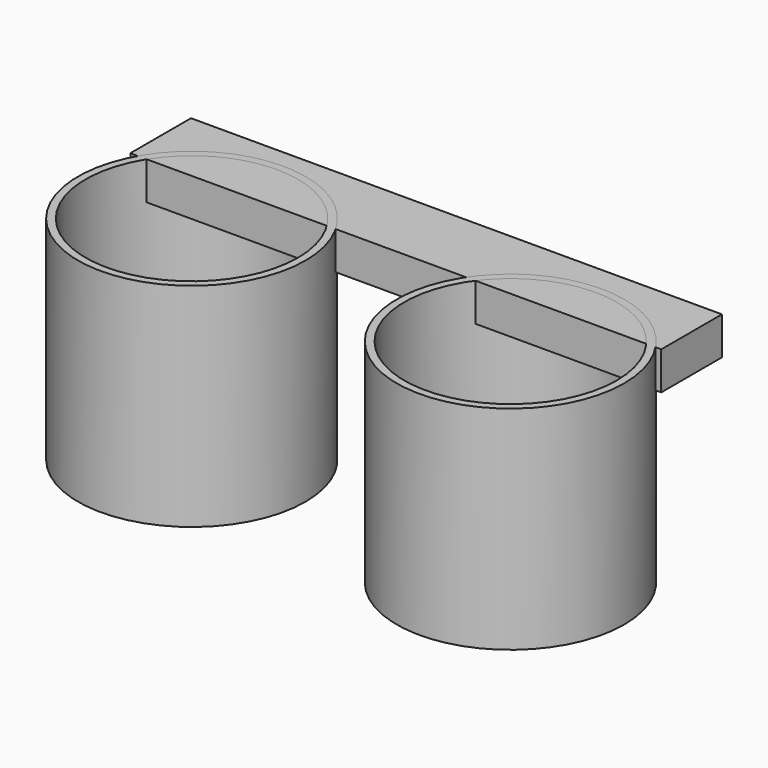
from build123d import *

# Parameters (mm, degrees)
F0_W     = 177.8
F0_H     = 12.7
F1_DEPTH = 25.4
F2_R     = 38.1
F2_R_2   = 35.56
F3_DEPTH = 71.12


with BuildPart() as f1:
    # F0 (on Front) → F1 (new body)
    with BuildSketch(Plane.XZ):
        Rectangle(F0_W, F0_H)
    extrude(amount=F1_DEPTH)


with BuildPart() as f3:
    # F2 (on face) → F3 (new body)
    with BuildSketch(Plane.XY.offset(6.35)):
        with Locations((-53.248975, -44.237614)):
            Circle(F2_R)
        with Locations((-53.248975, -44.237614)):
            Circle(F2_R_2, mode=Mode.SUBTRACT)
        with Locations((55.276845, -46.4954)):
            Circle(F2_R)
        with Locations((55.276845, -46.4954)):
            Circle(F2_R_2, mode=Mode.SUBTRACT)
    extrude(amount=-F3_DEPTH)


solid = Compound([f1.part, f3.part])
